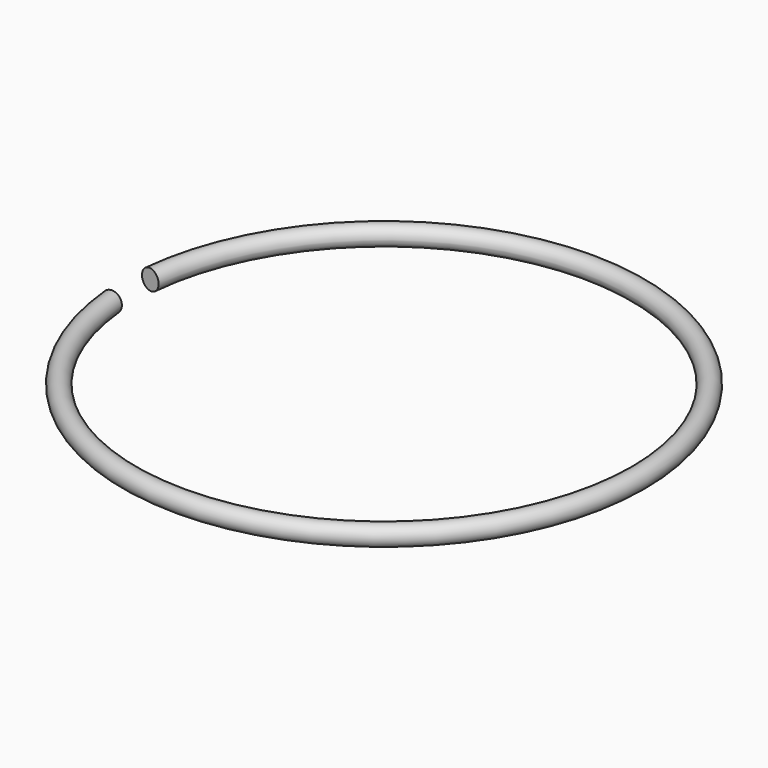
from build123d import *

# Parameters (mm, degrees)
F0_R = 1.5875


with BuildPart() as f2:
    # F2: sweep along a path in F1
    with BuildLine(Plane.XY) as f2_path:
        ThreePointArc((0, 0), (80.4711358014, 3.81), (0, 7.62))
    # F0 (on Front) → F2 (sweep)
    with BuildSketch(Plane.XZ):
        Circle(F0_R)
    sweep(path=f2_path.line)


solid = f2.part
